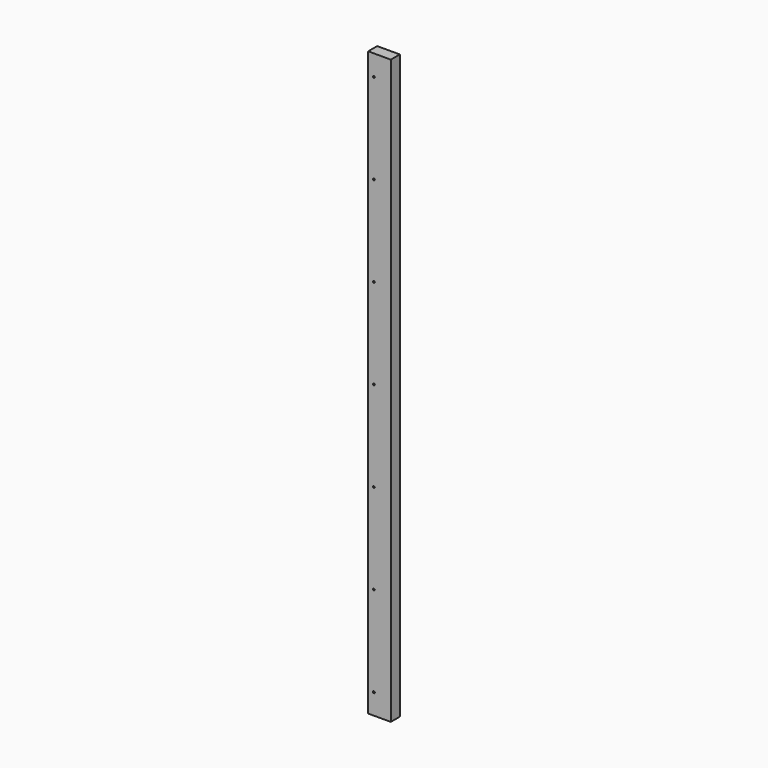
from build123d import *

# Parameters (mm, degrees)
F0_W     = 38.1
F0_H     = 984.25
F1_DEPTH = 19.05
F2_R     = 1.5875
F3_DEPTH = 19.051


with BuildPart() as f1:
    # F0 (on Front) → F1 (new body)
    with BuildSketch(Plane.XZ):
        with Locations((19.05, -492.125)):
            Rectangle(F0_W, F0_H)
    extrude(amount=-F1_DEPTH)

    # F2 (on Front) → F3 (cut, through all)
    with BuildSketch(Plane.XZ):
        with Locations((9.525, -34.925)):
            Circle(F2_R)
        with Locations((9.525, -187.325)):
            Circle(F2_R)
        with Locations((9.525, -339.725)):
            Circle(F2_R)
        with Locations((9.525, -492.125)):
            Circle(F2_R)
        with Locations((9.525, -644.525)):
            Circle(F2_R)
        with Locations((9.525, -796.925)):
            Circle(F2_R)
        with Locations((9.525, -949.325)):
            Circle(F2_R)
    extrude(amount=-F3_DEPTH, mode=Mode.SUBTRACT)


solid = f1.part
